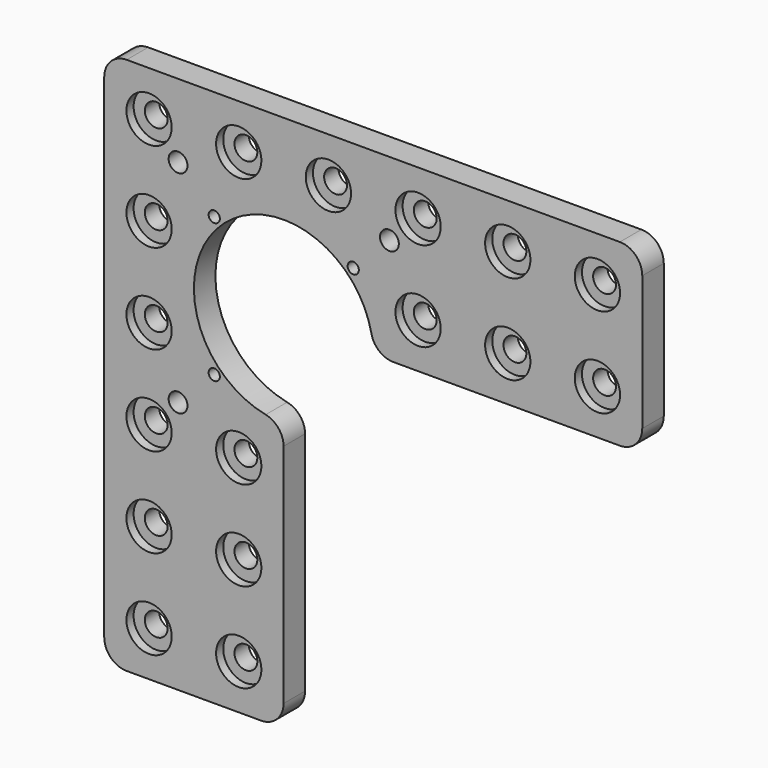
from build123d import *

# Parameters (mm, degrees)
F1_DEPTH       = 6
F2_D           = 5.1
F2_CBORE_D     = 10.1
F2_CBORE_DEPTH = 2
F3_D           = 4.2
F4_D           = 2.5


with BuildPart() as f1:
    # F0 (on Front) → F1 (new body)
    with BuildSketch(Plane.XZ):
        with BuildLine():
            Line((115, 0), (5, 0))
            ThreePointArc((5, 0), (1.4644660941, -1.4644660941), (0, -5))
            Line((0, -5), (0, -115))
            ThreePointArc((0, -115), (1.4644660941, -118.5355339059), (5, -120))
            Line((5, -120), (35, -120))
            ThreePointArc((35, -120), (38.5355339059, -118.5355339059), (40, -115))
            Line((40, -115), (40, -64.4948974278))
            ThreePointArc((40, -64.4948974278), (38.8729833462, -61.3326197677), (36, -59.5959179423))
            ThreePointArc((36, -59.5959179423), (25.8578643763, -25.8578643763), (59.5959179423, -36))
            ThreePointArc((59.5959179423, -36), (61.3326197677, -38.8729833462), (64.4948974278, -40))
            Line((64.4948974278, -40), (115, -40))
            ThreePointArc((115, -40), (118.5355339059, -38.5355339059), (120, -35))
            Line((120, -35), (120, -5))
            ThreePointArc((120, -5), (118.5355339059, -1.4644660941), (115, 0))
        make_face()
    extrude(amount=-F1_DEPTH)

    # F2 (through all)
    with Locations(Plane.XZ):
        with Locations((10, -110), (30, -110), (30, -90), (10, -90), (10, -70), (30, -70), (10, -50), (10, -30), (10, -10), (30, -10), (50, -10), (70, -10), (70, -30), (90, -30), (90, -10), (110, -10), (110, -30)):
            CounterBoreHole(F2_D / 2, F2_CBORE_D / 2, F2_CBORE_DEPTH)

    # F3 (through all)
    with Locations(Plane.XZ):
        with Locations((16.468, -16.392), (63.6079993896, -16.392), (16.468, -63.5319993896)):
            Hole(F3_D / 2)

    # F4 (through all)
    with Locations(Plane.XZ):
        with Locations((24.538, -24.462), (55.538, -24.462), (24.538, -55.462)):
            Hole(F4_D / 2)


solid = f1.part
